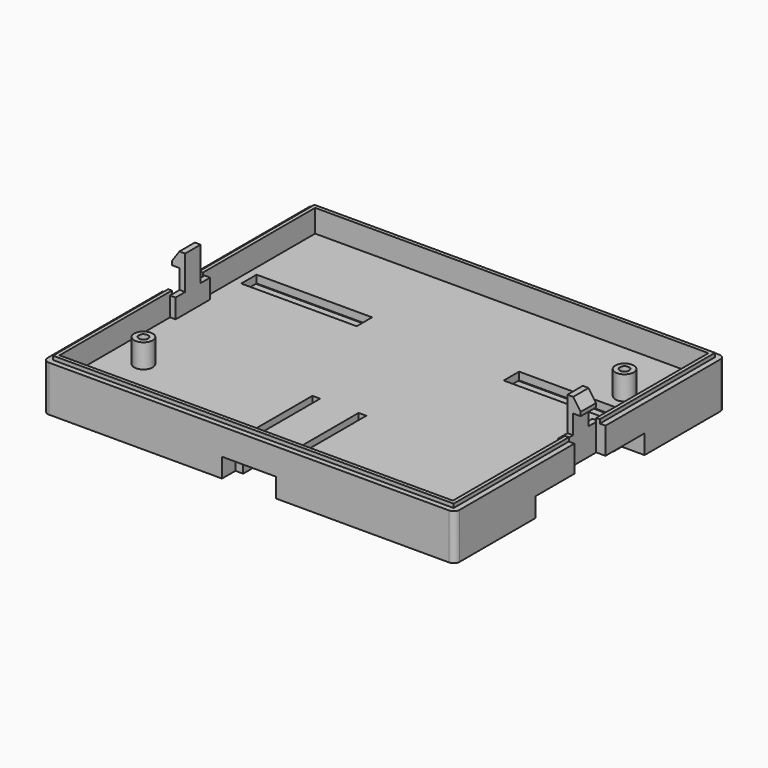
from build123d import *

# Parameters (mm, degrees)
SKETCH_W      = 102.2
SKETCH_H      = 83
SKETCH_W_2    = 30
SKETCH_H_2    = 5
SKETCH_W_3    = 2
SKETCH_H_3    = 25
PAD_DEPTH     = 2
SKETCH001_R   = 2.4
SKETCH001_R_2 = 1.2
PAD001_DEPTH  = 6.2
PAD002_DEPTH  = 6.9
PAD003_DEPTH  = 1
SKETCH004_W   = 1.45
SKETCH004_H   = 11.2
PAD004_DEPTH  = 5
SKETCH005_W   = 1.45
SKETCH005_H   = 5
PAD005_DEPTH  = 5
PAD006_DEPTH  = 5
SKETCH007_W   = 107
SKETCH007_H   = 26.1
SKETCH007_W_2 = 102.2
SKETCH007_H_2 = 21.7
PAD007_DEPTH  = 5
SKETCH008_W   = 27
SKETCH008_H   = 2.75
PAD008_DEPTH  = 3.8
CHAMFER_SIZE  = 1
SKETCH009_W   = 46.5
SKETCH009_H   = 26.1
SKETCH009_W_2 = 42.1
SKETCH009_H_2 = 21.7
PAD009_DEPTH  = 5
SKETCH010_W   = 2
SKETCH010_H   = 21.75
PAD010_DEPTH  = 3.8
FILLET_R      = 1.5


with BuildPart() as part:
    # Sketch → Pad (new body)
    with BuildSketch(Plane.XY):
        Rectangle(SKETCH_W, SKETCH_H)
        with Locations((34.1, 17.5)):
            Rectangle(SKETCH_W_2, SKETCH_H_2, mode=Mode.SUBTRACT)
        with Locations((-34.1, 17.5)):
            Rectangle(SKETCH_W_2, SKETCH_H_2, mode=Mode.SUBTRACT)
        with Locations((6, -27)):
            Rectangle(SKETCH_W_3, SKETCH_H_3, mode=Mode.SUBTRACT)
        with Locations((-6, -27)):
            Rectangle(SKETCH_W_3, SKETCH_H_3, mode=Mode.SUBTRACT)
    extrude(amount=PAD_DEPTH)

    # Sketch001 (on Face22 of Pad) → Pad001 (join)
    with BuildSketch(Plane.XY.offset(2)):
        with Locations((-42.5, -25)):
            Circle(SKETCH001_R)
        with Locations((-42.5, -25)):
            Circle(SKETCH001_R_2, mode=Mode.SUBTRACT)
        with Locations((42.5, 25)):
            Circle(SKETCH001_R)
        with Locations((42.5, 25)):
            Circle(SKETCH001_R_2, mode=Mode.SUBTRACT)
    extrude(amount=PAD001_DEPTH)

    # Sketch002 → Pad002 (join)
    with BuildSketch(Plane.XY):
        Polygon((-51.1, 41.5), (51.1, 41.5), (51.1, 5.05), (53.5, 5.05), (53.5, 43.85), (-53.5, 43.85), (-53.5, 5.05), (-51.1, 5.05), align=None)
    pad002 = extrude(amount=PAD002_DEPTH)

    # Mirrored: Pad002 across XZ
    add(pad002.mirror(Plane.XZ))

    # Sketch003 (on Face36 of Mirrored) → Pad003 (join)
    with BuildSketch(Plane.XY.offset(6.9)):
        Polygon((-51.1, 5.05), (-51.1, 41.5), (51.1, 41.5), (51.1, 5.05), (52.05, 5.05), (52.05, 42.45), (-52.05, 42.45), (-52.05, 5.05), align=None)
    pad003 = extrude(amount=PAD003_DEPTH)

    # Mirrored001: Pad003 across XZ
    add(pad003.mirror(Plane.XZ))

    # Sketch004 (on Face3 of Mirrored001) → Pad004 (join)
    with BuildSketch(Plane.XY.offset(2)):
        with Locations((50.375, 0)):
            Rectangle(SKETCH004_W, SKETCH004_H)
    pad004 = extrude(amount=PAD004_DEPTH)

    # Mirrored002: Pad004 across YZ
    add(pad004.mirror(Plane.YZ))

    # Sketch005 (on Face40 of Mirrored002) → Pad005 (join)
    with BuildSketch(Plane.XY.offset(7)):
        with Locations((50.375, 0)):
            Rectangle(SKETCH005_W, SKETCH005_H)
    pad005 = extrude(amount=PAD005_DEPTH)

    # Mirrored003: Pad005 across YZ
    add(pad005.mirror(Plane.YZ))

    # Sketch006 (on Face2 of Mirrored003) → Pad006 (join)
    with BuildSketch(Plane.XZ.offset(2.5)):
        Polygon((49.65, 12), (51.1, 12), (53.1, 12), (53.1, 13), (51.15, 15.8), (49.65, 15.8), align=None)
    pad006 = extrude(amount=-PAD006_DEPTH)

    # Mirrored004: Pad006 across YZ
    add(pad006.mirror(Plane.YZ))

    # Sketch007 (on Face13 of Mirrored004) → Pad007 (join)
    with BuildSketch(Plane(origin=(0, 0, 0), x_dir=(1, 0, 0), z_dir=(0, 0, -1))):
        with Locations((0, -30.8)):
            Rectangle(SKETCH007_W, SKETCH007_H)
        with Locations((0, -30.6)):
            Rectangle(SKETCH007_W_2, SKETCH007_H_2, mode=Mode.SUBTRACT)
    extrude(amount=PAD007_DEPTH)

    # Sketch008 (on Face70 of Pad007) → Pad008 (join)
    with BuildSketch(Plane(origin=(0, 0, -5), x_dir=(1, 0, 0), z_dir=(0, 0, -1))):
        with Locations((34.1, -16.375)):
            Rectangle(SKETCH008_W, SKETCH008_H)
    pad008 = extrude(amount=-PAD008_DEPTH)

    # Mirrored005: Pad008 across YZ
    add(pad008.mirror(Plane.YZ))

    # Chamfer
    chamfer_edges = [part.edges().sort_by_distance(p)[0] for p in [
        (-34.1, 15, -1.2),
        (34.1, 15, -1.2),
    ]]
    chamfer(chamfer_edges, length=CHAMFER_SIZE)

    # Sketch009 (on Face18 of Chamfer) → Pad009 (join)
    with BuildSketch(Plane(origin=(0, 0, 0), x_dir=(1, 0, 0), z_dir=(0, 0, -1))):
        with Locations((-30.25, 30.8)):
            Rectangle(SKETCH009_W, SKETCH009_H)
        with Locations((-30.05, 30.6)):
            Rectangle(SKETCH009_W_2, SKETCH009_H_2, mode=Mode.SUBTRACT)
    pad009 = extrude(amount=PAD009_DEPTH)

    # Mirrored006: Pad009 across YZ
    add(pad009.mirror(Plane.YZ))

    # Sketch010 (on Face66 of Mirrored006) → Pad010 (join)
    with BuildSketch(Plane(origin=(0, 0, -5), x_dir=(1, 0, 0), z_dir=(0, 0, -1))):
        with Locations((6, 28.625)):
            Rectangle(SKETCH010_W, SKETCH010_H)
    pad010 = extrude(amount=-PAD010_DEPTH)

    # Mirrored007: Pad010 across YZ
    add(pad010.mirror(Plane.YZ))

    # Fillet
    fillet_edges = [part.edges().sort_by_distance(p)[0] for p in [
        (53.5, -43.85, 0.95),
        (-53.5, -43.85, 0.95),
        (53.5, 43.85, 0.95),
        (-53.5, 43.85, 0.95),
    ]]
    fillet(fillet_edges, radius=FILLET_R)


solid = part.part
